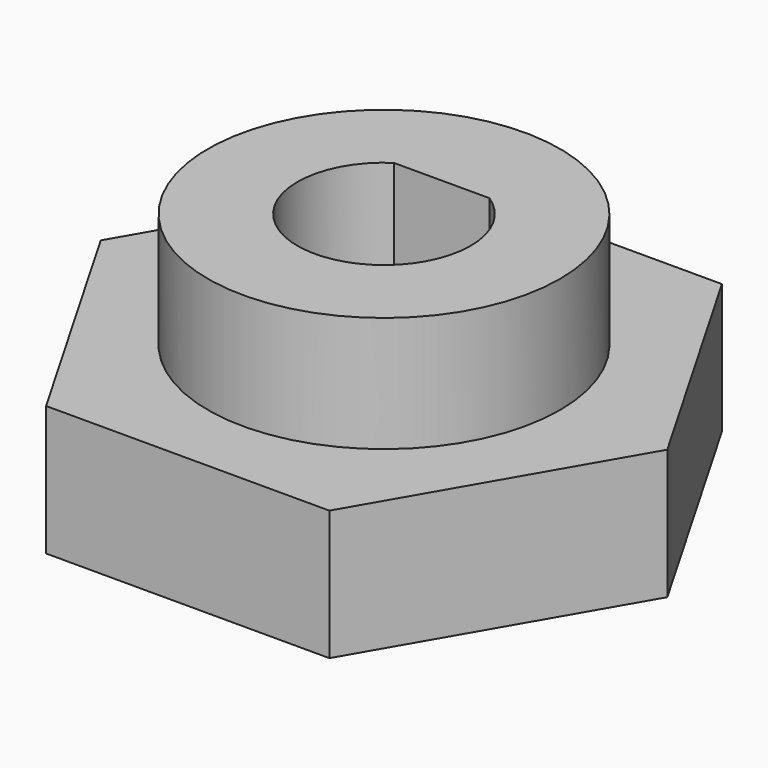
from build123d import *

# Parameters (mm, degrees)
SKETCH_R        = 3
PAD_DEPTH       = 4.5
SKETCH001_R     = 6.1
SKETCH001_R_2   = 3
PAD001_DEPTH    = 10
PAD002_DEPTH    = 13
SKETCH003_R     = 6.1
POCKET_DEPTH    = 6
PAD003_DEPTH    = 1.5
POCKET001_DEPTH = 4
SKETCH005_R     = 1.6
POCKET002_DEPTH = 3.701


with BuildPart() as part:
    # Sketch → Pad (new body)
    with BuildSketch(Plane.XY):
        Polygon((9.814955, 0), (4.907477, 8.5), (-4.907477, 8.5), (-9.814955, 0), (-4.907477, -8.5), (4.907477, -8.5), align=None)
        Circle(SKETCH_R, mode=Mode.SUBTRACT)
    extrude(amount=PAD_DEPTH)

    # Sketch001 (on Face9 of Pad) → Pad001 (join)
    with BuildSketch(Plane.XY.offset(4.5)):
        Circle(SKETCH001_R)
        Circle(SKETCH001_R_2, mode=Mode.SUBTRACT)
    extrude(amount=PAD001_DEPTH)

    # Sketch002 (on Face12 of Pad001) → Pad002 (join)
    with BuildSketch(Plane.XY.offset(14.5)):
        with BuildLine():
            Line((-1.658312, 2.5), (1.658312, 2.5))
            ThreePointArc((1.658312, 2.5), (0, 3), (-1.658312, 2.5))
        make_face()
    extrude(amount=-PAD002_DEPTH)

    # Sketch003 (on Face15 of Pad002) → Pocket (cut)
    with BuildSketch(Plane.XY.offset(14.5)):
        Circle(SKETCH003_R)
    extrude(amount=-POCKET_DEPTH, mode=Mode.SUBTRACT)

    # Pocket Face13 → Pad003 (add)
    with BuildSketch(Plane(origin=(0, 2.701501, 1.5), x_dir=(0, -1, 0), z_dir=(0, 0, -1))):
        with BuildLine():
            Line((0.201501, -1.658312), (0.201501, 1.658312))
            ThreePointArc((0.201501, 1.658312), (-0.298499, 0), (0.201501, -1.658312))
        make_face()
    extrude(amount=PAD003_DEPTH)

    # Sketch004 (on Face4 of Pad003) → Pocket001 (cut)
    with BuildSketch(Plane(origin=(0, 0, 0), x_dir=(1, 0, 0), z_dir=(0, 0, -1))):
        Polygon((2.8, -2.5), (2.8, -4.8), (-2.8, -4.8), (-2.8, -2.5), (0, -2.5), align=None)
    extrude(amount=-POCKET001_DEPTH, mode=Mode.SUBTRACT)

    # Sketch005 (on Face12 of Pocket001) → Pocket002 (cut, through all)
    with BuildSketch(Plane.XZ.offset(-4.8)):
        with Locations((0, 2)):
            Circle(SKETCH005_R)
    extrude(amount=-POCKET002_DEPTH, mode=Mode.SUBTRACT)


solid = part.part
